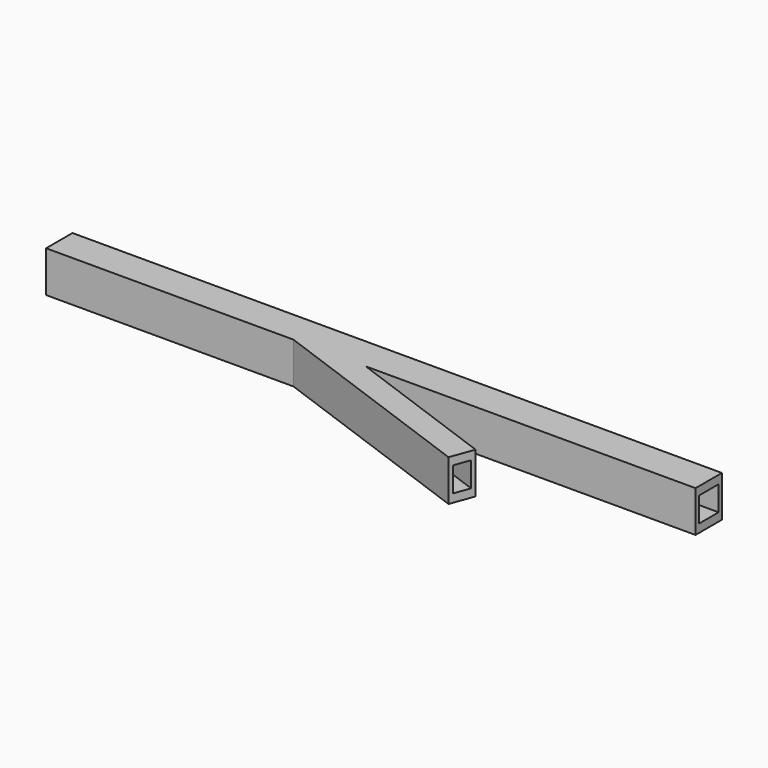
from build123d import *

# Parameters (mm, degrees)
F1_DEPTH = 10.16
F3_DEPTH = 7.62
F5_DEPTH = 2.54


with BuildPart() as f1:
    # F0 (on Top) → F1 (new body)
    with BuildSketch(Plane.XY):
        Polygon((-101.6, 0), (0, 0), (0, 10.16), (-200.0793895292, 10.16), (-200.0793895292, 0), (-123.8793895292, 0), (-56.4698083562, -24.5350810513), (-53.8636148641, -17.3746232809), align=None)
    extrude(amount=F1_DEPTH)

    # F2 (on face) → F3 (cut)
    with BuildSketch(Plane.XY.offset(10.16)):
        Polygon((-54.2979804461, -18.5680329093), (-115.9915508729, 3.8865903716), (-115.5571852908, 5.08), (-105.0892963227, 1.27), (0, 1.27), (0, 8.89), (-200.0793895292, 8.89), (-200.0793895292, 1.27), (-123.6554542637, 1.27), (-56.0354427742, -23.3416714229), align=None)
    extrude(amount=-F3_DEPTH, mode=Mode.SUBTRACT)

    # F4 (on face) → F5 (join)
    with BuildSketch(Plane.XY.offset(10.16)):
        Polygon((-101.6, 0), (0, 0), (0, 10.16), (-200.0793895292, 10.16), (-200.0793895292, 0), (-123.8793895292, 0), (-56.4698083562, -24.5350810513), (-53.8636148641, -17.3746232809), align=None)
    extrude(amount=F5_DEPTH)


solid = f1.part
